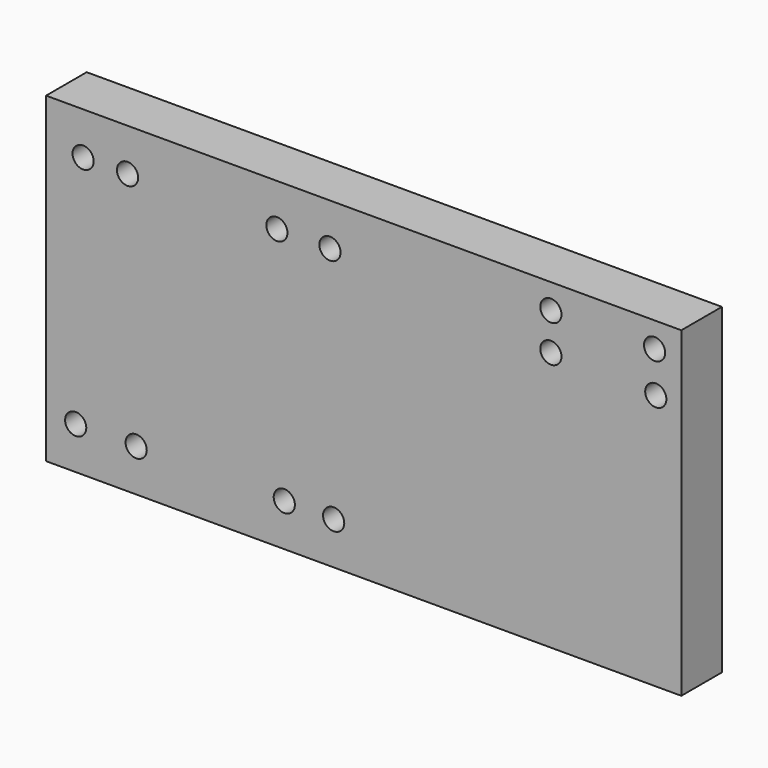
from build123d import *

# Parameters (mm, degrees)
F0_W     = 150.0124
F0_H     = 75.9968
F0_R     = 2.5019
F1_DEPTH = 11.9888


with BuildPart() as f1:
    # F0 (on Front) → F1 (new body)
    with BuildSketch(Plane.XZ):
        with Locations((-0.194455, -2.486701)):
            Rectangle(F0_W, F0_H)
        with Locations((-68.205245, -30.477501)):
            Circle(F0_R, mode=Mode.SUBTRACT)
        with Locations((-53.922951, -30.477501)):
            Circle(F0_R, mode=Mode.SUBTRACT)
        with Locations((-18.945903, -30.477501)):
            Circle(F0_R, mode=Mode.SUBTRACT)
        with Locations((-7.286886, -30.477501)):
            Circle(F0_R, mode=Mode.SUBTRACT)
        with Locations((-66.456392, 25.504099)):
            Circle(F0_R, mode=Mode.SUBTRACT)
        with Locations((-55.963278, 25.504099)):
            Circle(F0_R, mode=Mode.SUBTRACT)
        with Locations((-20.694755, 25.504099)):
            Circle(F0_R, mode=Mode.SUBTRACT)
        with Locations((-8.161312, 25.504099)):
            Circle(F0_R, mode=Mode.SUBTRACT)
        with Locations((44.012785, 20.840492)):
            Circle(F0_R, mode=Mode.SUBTRACT)
        with Locations((68.788201, 20.017699)):
            Circle(F0_R, mode=Mode.SUBTRACT)
        with Locations((44.012785, 29.584754)):
            Circle(F0_R, mode=Mode.SUBTRACT)
        with Locations((68.496726, 29.584754)):
            Circle(F0_R, mode=Mode.SUBTRACT)
    extrude(amount=F1_DEPTH)


solid = f1.part
